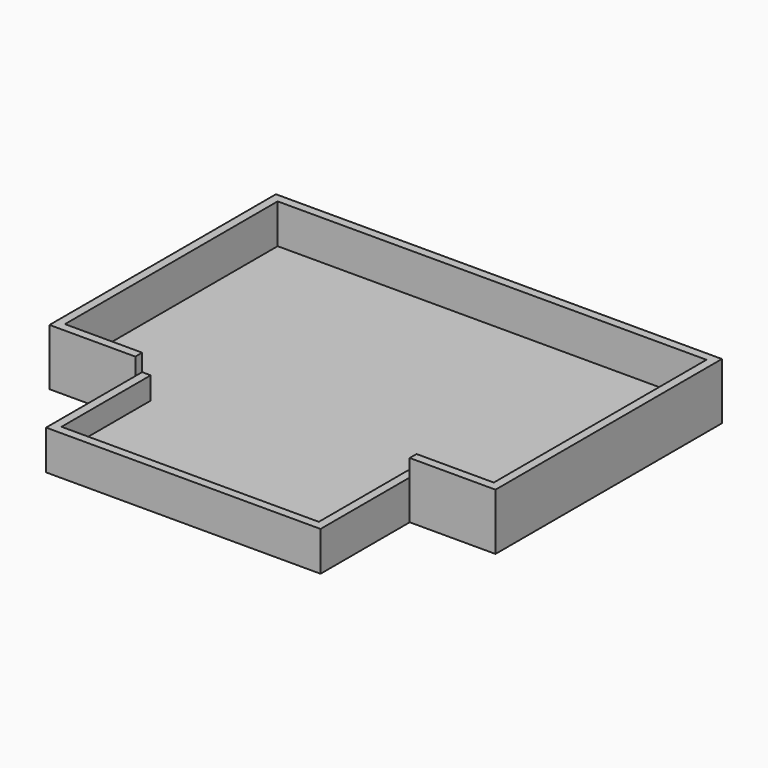
from build123d import *

# Parameters (mm, degrees)
PAD_DEPTH    = 1
PAD001_DEPTH = 1.3
PAD002_DEPTH = 1


with BuildPart() as part:
    # Sketch → Pad (new body)
    with BuildSketch(Plane.XY):
        Polygon((-13, 11.5), (13, 11.5), (13, -5), (8, -5), (8, -11.5), (-8, -11.5), (-8, -5), (-13, -5), align=None)
    extrude(amount=PAD_DEPTH)

    # Sketch001 (on DatumPlane) → Pad001 (join)
    with BuildSketch(Plane.XY.offset(1)):
        Polygon((-13, 11.5), (13, 11.5), (13, -5), (8, -5), (8, -11.5), (-8, -11.5), (-8, -5), (-13, -5), align=None)
        Polygon((-12.5, 11), (-12.5, -4.5), (-7.5, -4.5), (-7.5, -11), (7.5, -11), (7.5, -4.5), (12.5, -4.5), (12.5, 11), align=None, mode=Mode.SUBTRACT)
    extrude(amount=PAD001_DEPTH)

    # Sketch002 (on Face13 of Pad001) → Pad002 (join)
    with BuildSketch(Plane.XY.offset(2.3)):
        Polygon((-13, 11.5), (13, 11.5), (13, -5), (8, -5), (8, -4.5), (12.5, -4.5), (12.5, 11), (-12.5, 11), (-12.5, -4.5), (-8, -4.5), (-8, -5), (-13, -5), align=None)
    extrude(amount=PAD002_DEPTH)


solid = part.part
